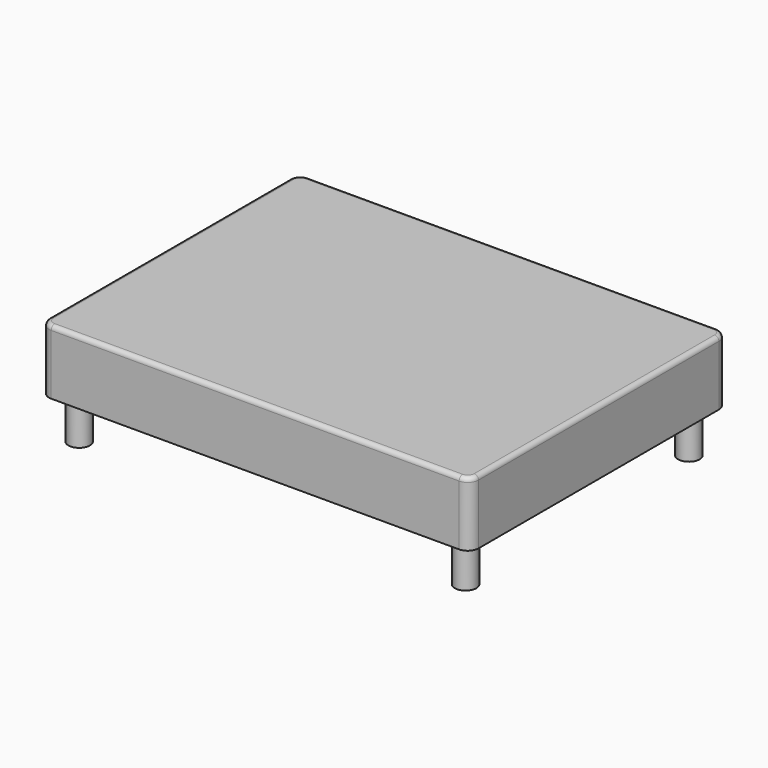
from build123d import *

# Parameters (mm, degrees)
F0_W     = 2000
F0_H     = 1500
F1_DEPTH = 300
F2_R     = 50
F3_R     = 20
F4_R     = 50
F5_DEPTH = 200


with BuildPart() as f1:
    # F0 (on Top) → F1 (new body)
    with BuildSketch(Plane.XY):
        with Locations((1000, 750)):
            Rectangle(F0_W, F0_H)
    extrude(amount=F1_DEPTH)

    # F2
    f2_edges = [f1.edges().sort_by_distance(p)[0] for p in [
        (2000, 0, 150),
        (2000, 1500, 150),
        (0, 0, 150),
        (0, 1500, 150),
    ]]
    fillet(f2_edges, radius=F2_R)

    # F3
    f3_edges = [f1.edges().sort_by_distance(p)[0] for p in [
        (0, 750, 300),
        (14.644661, 1485.355339, 300),
        (14.644661, 14.644661, 300),
        (1000, 1500, 300),
        (1000, 0, 300),
        (1985.355339, 1485.355339, 300),
        (1985.355339, 14.644661, 300),
        (2000, 750, 300),
    ]]
    fillet(f3_edges, radius=F3_R)

    # F4 (on face) → F5 (join)
    with BuildSketch(Plane(origin=(0, 0, 0), x_dir=(1, 0, 0), z_dir=(0, 0, -1))):
        with Locations((100, -100)):
            Circle(F4_R)
        with Locations((100, -1400)):
            Circle(F4_R)
        with Locations((1900, -100)):
            Circle(F4_R)
        with Locations((1900, -1400)):
            Circle(F4_R)
    extrude(amount=F5_DEPTH)


solid = f1.part
